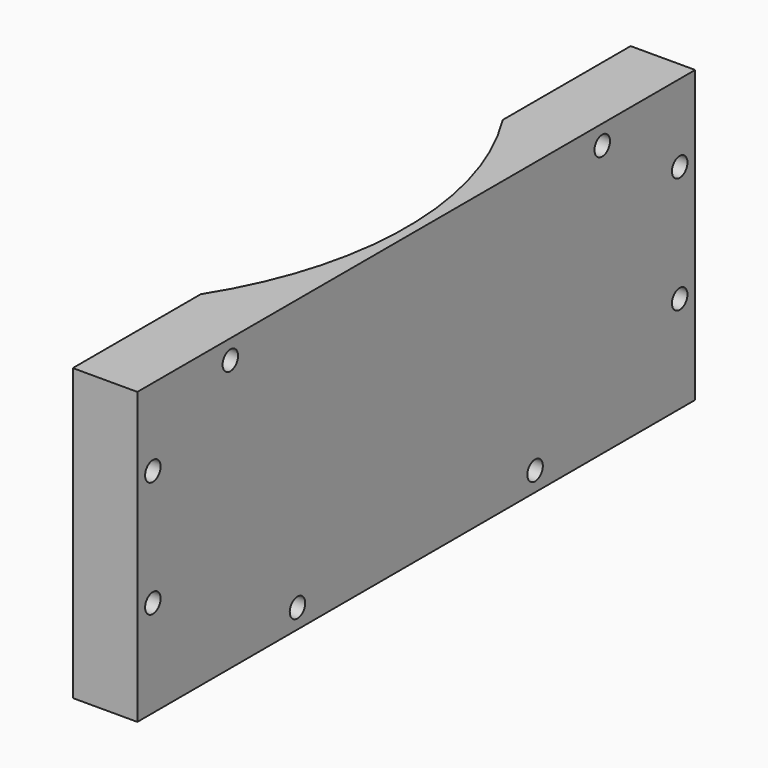
from build123d import *

# Parameters (mm, degrees)
CYLINDER485_R     = 3.5
CYLINDER485_DEPTH = 4
CYLINDER484_R     = 54.5
CYLINDER484_DEPTH = 28
CYLINDER473_R     = 1.5
CYLINDER473_DEPTH = 100
CYLINDER471_R     = 1.5
CYLINDER471_DEPTH = 100
CYLINDER464_R     = 1.5
CYLINDER464_DEPTH = 100
CYLINDER466_R     = 1.5
CYLINDER466_DEPTH = 100
CYLINDER460_R     = 1.5
CYLINDER460_DEPTH = 100
CYLINDER463_R     = 1.5
CYLINDER463_DEPTH = 100
CYLINDER468_R     = 1.5
CYLINDER468_DEPTH = 100
CYLINDER470_R     = 1.5
CYLINDER470_DEPTH = 100
BOX213_W          = 10
BOX213_H          = 108
BOX213_DEPTH      = 45


with BuildPart() as obj1:
    # Cylinder485 → Cylinder485 (new body)
    with BuildSketch(Plane(origin=(50, 0, 5), x_dir=(1, 0, 0), z_dir=(0, 0, 1))):
        Circle(CYLINDER485_R)
    extrude(amount=CYLINDER485_DEPTH)


with BuildPart() as obj2:
    # Cylinder484 → Cylinder484 (new body)
    with BuildSketch(Plane.XY.offset(9)):
        Circle(CYLINDER484_R)
    extrude(amount=CYLINDER484_DEPTH)


with BuildPart() as obj3:
    # Cylinder473 → Cylinder473 (new body)
    with BuildSketch(Plane(origin=(24, -51, 25), x_dir=(0, 0, -1), z_dir=(1, 0, 0))):
        Circle(CYLINDER473_R)
    extrude(amount=CYLINDER473_DEPTH)


with BuildPart() as obj4:
    # Cylinder471 → Cylinder471 (new body)
    with BuildSketch(Plane(origin=(24, 36, 34), x_dir=(0, 0, -1), z_dir=(1, 0, 0))):
        Circle(CYLINDER471_R)
    extrude(amount=CYLINDER471_DEPTH)


with BuildPart() as obj5:
    # Cylinder464 → Cylinder464 (new body)
    with BuildSketch(Plane(origin=(24, -36, 34), x_dir=(0, 0, -1), z_dir=(1, 0, 0))):
        Circle(CYLINDER464_R)
    extrude(amount=CYLINDER464_DEPTH)


with BuildPart() as obj6:
    # Cylinder466 → Cylinder466 (new body)
    with BuildSketch(Plane(origin=(24, -23, -5), x_dir=(0, 0, -1), z_dir=(1, 0, 0))):
        Circle(CYLINDER466_R)
    extrude(amount=CYLINDER466_DEPTH)


with BuildPart() as obj7:
    # Cylinder460 → Cylinder460 (new body)
    with BuildSketch(Plane(origin=(24, 51, 7), x_dir=(0, 0, -1), z_dir=(1, 0, 0))):
        Circle(CYLINDER460_R)
    extrude(amount=CYLINDER460_DEPTH)


with BuildPart() as obj8:
    # Cylinder463 → Cylinder463 (new body)
    with BuildSketch(Plane(origin=(24, 23, -5), x_dir=(0, 0, -1), z_dir=(1, 0, 0))):
        Circle(CYLINDER463_R)
    extrude(amount=CYLINDER463_DEPTH)


with BuildPart() as obj9:
    # Cylinder468 → Cylinder468 (new body)
    with BuildSketch(Plane(origin=(24, -51, 7), x_dir=(0, 0, -1), z_dir=(1, 0, 0))):
        Circle(CYLINDER468_R)
    extrude(amount=CYLINDER468_DEPTH)


with BuildPart() as compound594:
    # Cylinder470 → Cylinder470 (new body)
    with BuildSketch(Plane(origin=(24, 51, 25), x_dir=(0, 0, -1), z_dir=(1, 0, 0))):
        Circle(CYLINDER470_R)
    extrude(amount=CYLINDER470_DEPTH)

    # Compound594: union obj3, obj4, obj5, obj6, obj7, obj8, obj9
    add(obj3.part)
    add(obj4.part)
    add(obj5.part)
    add(obj6.part)
    add(obj7.part)
    add(obj8.part)
    add(obj9.part)


with BuildPart() as cut371:
    # Box213 → Box213 (new body)
    with BuildSketch(Plane(origin=(46, -54, -8), x_dir=(1, 0, 0), z_dir=(0, 0, 1))):
        with Locations((5, 54)):
            Rectangle(BOX213_W, BOX213_H)
    extrude(amount=BOX213_DEPTH)

    # Cut374: cut Compound594
    add(compound594.part, mode=Mode.SUBTRACT)

    # Cut375: cut obj2
    add(obj2.part, mode=Mode.SUBTRACT)

    # Cut371: cut obj1
    add(obj1.part, mode=Mode.SUBTRACT)


solid = cut371.part
